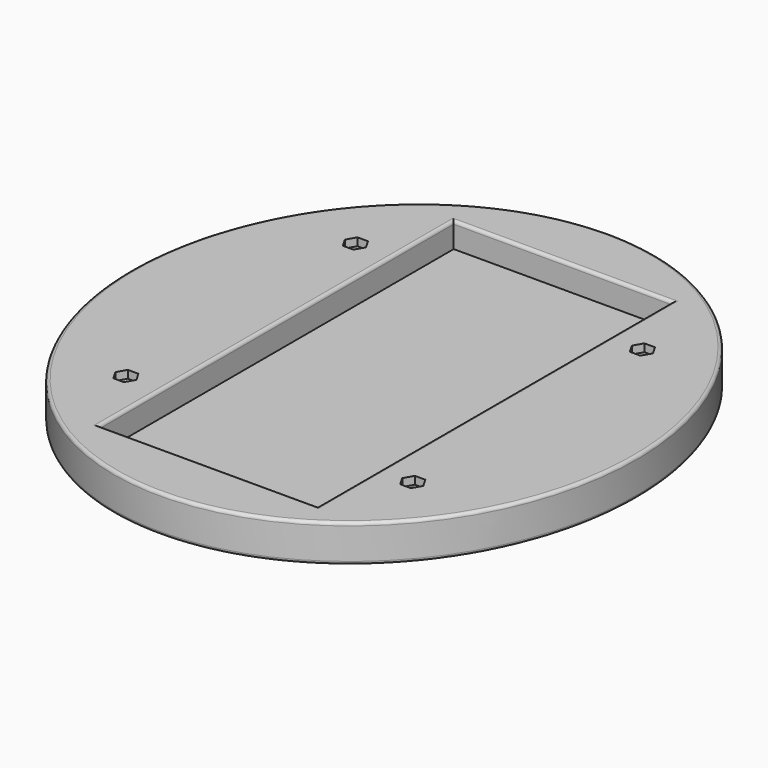
from build123d import *

# Parameters (mm, degrees)
EXTRUDE009_DEPTH            = 2.5
CYLINDER014_R               = 6.5
CYLINDER014_DEPTH           = 12.5
CYLINDER014_ROLL_ANGLE      = 90
CYLINDER014_PITCH_ANGLE     = -45
CYLINDER015_R               = 6.5
CYLINDER015_DEPTH           = 12.5
CYLINDER015_ROLL_ANGLE      = 90
CYLINDER015_PITCH_ANGLE     = 45
CYLINDER016_R               = 6.5
CYLINDER016_DEPTH           = 12.5
CYLINDER016_ROLL_ANGLE      = -90
CYLINDER016_PITCH_ANGLE     = -45
CYLINDER016_PLACEMENT_ANGLE = 180
CYLINDER013_R               = 6.5
CYLINDER013_DEPTH           = 12.5
CYLINDER013_ROLL_ANGLE      = 90
CYLINDER013_PITCH_ANGLE     = 45
FUSION034_PLACEMENT_ANGLE   = 90
CYLINDER010_R               = 1.65
CYLINDER010_DEPTH           = 20
CYLINDER010_ROLL_ANGLE      = 90
CYLINDER010_PITCH_ANGLE     = -45
CYLINDER011_R               = 1.65
CYLINDER011_DEPTH           = 20
CYLINDER011_ROLL_ANGLE      = 90
CYLINDER011_PITCH_ANGLE     = 45
CYLINDER012_R               = 1.65
CYLINDER012_DEPTH           = 20
CYLINDER012_ROLL_ANGLE      = -90
CYLINDER012_PITCH_ANGLE     = -45
CYLINDER012_PLACEMENT_ANGLE = 180
CYLINDER009_R               = 1.65
CYLINDER009_DEPTH           = 20
CYLINDER009_ROLL_ANGLE      = 90
CYLINDER009_PITCH_ANGLE     = 45
FUSION032_PLACEMENT_ANGLE   = 90
BOX003_W                    = 70
BOX003_H                    = 142
BOX003_DEPTH                = 12
EXTRUDE004_DEPTH            = 12
FILLET001_R                 = 1


with BuildPart() as m3nut:
    # Sketch009 (on Fillet) → Extrude009 (new body)
    with BuildSketch(Plane.XY):
        Polygon((-44.31125, 43.075), (-42.622501, 46), (-44.31125, 48.925), (-47.68875, 48.925), (-49.377499, 46), (-47.68875, 43.075), align=None)
        Polygon((47.68875, 43.075), (49.377499, 46), (47.68875, 48.925), (44.31125, 48.925), (42.622501, 46), (44.31125, 43.075), align=None)
        Polygon((47.68875, -48.925), (49.377499, -46), (47.68875, -43.075), (44.31125, -43.075), (42.622501, -46), (44.31125, -48.925), align=None)
        Polygon((-44.31125, -48.925), (-42.622501, -46), (-44.31125, -43.075), (-47.68875, -43.075), (-49.377499, -46), (-47.68875, -48.925), align=None)
    extrude(amount=EXTRUDE009_DEPTH)


with BuildPart() as m3nut_1:
    # Extrude009 placement: moved
    add(m3nut.part.moved(Location((0, 0, 82.5))))


with BuildPart() as cylinder014:
    # Cylinder014 → Cylinder014 (new body)
    with BuildSketch(Plane.XY):
        Circle(CYLINDER014_R)
    extrude(amount=CYLINDER014_DEPTH)


with BuildPart() as cylinder014_1:
    # Cylinder014 roll: moved
    add(cylinder014.part.rotate(Axis((0, 0, 0), (1, 0, 0)), CYLINDER014_ROLL_ANGLE))


with BuildPart() as cylinder014_2:
    # Cylinder014 pitch: moved
    add(cylinder014_1.part.rotate(Axis((0, 0, 0), (0, 1, 0)), CYLINDER014_PITCH_ANGLE))


with BuildPart() as cylinder014_3:
    # Cylinder014 placement: moved
    add(cylinder014_2.part.moved(Location((-45.961941, 57, 45.961941))))


with BuildPart() as cylinder015:
    # Cylinder015 → Cylinder015 (new body)
    with BuildSketch(Plane.XY):
        Circle(CYLINDER015_R)
    extrude(amount=CYLINDER015_DEPTH)


with BuildPart() as cylinder015_1:
    # Cylinder015 roll: moved
    add(cylinder015.part.rotate(Axis((0, 0, 0), (1, 0, 0)), CYLINDER015_ROLL_ANGLE))


with BuildPart() as cylinder015_2:
    # Cylinder015 pitch: moved
    add(cylinder015_1.part.rotate(Axis((0, 0, 0), (0, 1, 0)), CYLINDER015_PITCH_ANGLE))


with BuildPart() as cylinder015_3:
    # Cylinder015 placement: moved
    add(cylinder015_2.part.moved(Location((45.961941, 57, -45.961941))))


with BuildPart() as cylinder016:
    # Cylinder016 → Cylinder016 (new body)
    with BuildSketch(Plane.XY):
        Circle(CYLINDER016_R)
    extrude(amount=CYLINDER016_DEPTH)


with BuildPart() as cylinder016_1:
    # Cylinder016 roll: moved
    add(cylinder016.part.rotate(Axis((0, 0, 0), (1, 0, 0)), CYLINDER016_ROLL_ANGLE))


with BuildPart() as cylinder016_2:
    # Cylinder016 pitch: moved
    add(cylinder016_1.part.rotate(Axis((0, 0, 0), (0, 1, 0)), CYLINDER016_PITCH_ANGLE))


with BuildPart() as cylinder016_3:
    # Cylinder016 placement: moved
    add(cylinder016_2.part.moved(Location((-45.961941, 57, -45.961941))).rotate(Axis((-45.961941, 57, -45.961941), (0, 0, 1)), CYLINDER016_PLACEMENT_ANGLE))


with BuildPart() as m3head:
    # Cylinder013 → Cylinder013 (new body)
    with BuildSketch(Plane.XY):
        Circle(CYLINDER013_R)
    extrude(amount=CYLINDER013_DEPTH)


with BuildPart() as m3head_1:
    # Cylinder013 roll: moved
    add(m3head.part.rotate(Axis((0, 0, 0), (1, 0, 0)), CYLINDER013_ROLL_ANGLE))


with BuildPart() as m3head_2:
    # Cylinder013 pitch: moved
    add(m3head_1.part.rotate(Axis((0, 0, 0), (0, 1, 0)), CYLINDER013_PITCH_ANGLE))


with BuildPart() as m3head_3:
    # Cylinder013 placement: moved
    add(m3head_2.part.moved(Location((45.961941, 57, 45.961941))))

    # Fusion034: union Cylinder014, Cylinder015, Cylinder016
    add(cylinder014_3.part)
    add(cylinder015_3.part)
    add(cylinder016_3.part)


with BuildPart() as m3head_4:
    # Fusion034 placement: moved
    add(m3head_3.part.moved(Location((0, 0, 23))).rotate(Axis((0, 0, 23), (1, 0, 0)), FUSION034_PLACEMENT_ANGLE))


with BuildPart() as cylinder010:
    # Cylinder010 → Cylinder010 (new body)
    with BuildSketch(Plane.XY):
        Circle(CYLINDER010_R)
    extrude(amount=CYLINDER010_DEPTH)


with BuildPart() as cylinder010_1:
    # Cylinder010 roll: moved
    add(cylinder010.part.rotate(Axis((0, 0, 0), (1, 0, 0)), CYLINDER010_ROLL_ANGLE))


with BuildPart() as cylinder010_2:
    # Cylinder010 pitch: moved
    add(cylinder010_1.part.rotate(Axis((0, 0, 0), (0, 1, 0)), CYLINDER010_PITCH_ANGLE))


with BuildPart() as cylinder010_3:
    # Cylinder010 placement: moved
    add(cylinder010_2.part.moved(Location((-45.961941, 57, 45.961941))))


with BuildPart() as cylinder011:
    # Cylinder011 → Cylinder011 (new body)
    with BuildSketch(Plane.XY):
        Circle(CYLINDER011_R)
    extrude(amount=CYLINDER011_DEPTH)


with BuildPart() as cylinder011_1:
    # Cylinder011 roll: moved
    add(cylinder011.part.rotate(Axis((0, 0, 0), (1, 0, 0)), CYLINDER011_ROLL_ANGLE))


with BuildPart() as cylinder011_2:
    # Cylinder011 pitch: moved
    add(cylinder011_1.part.rotate(Axis((0, 0, 0), (0, 1, 0)), CYLINDER011_PITCH_ANGLE))


with BuildPart() as cylinder011_3:
    # Cylinder011 placement: moved
    add(cylinder011_2.part.moved(Location((45.961941, 57, -45.961941))))


with BuildPart() as cylinder012:
    # Cylinder012 → Cylinder012 (new body)
    with BuildSketch(Plane.XY):
        Circle(CYLINDER012_R)
    extrude(amount=CYLINDER012_DEPTH)


with BuildPart() as cylinder012_1:
    # Cylinder012 roll: moved
    add(cylinder012.part.rotate(Axis((0, 0, 0), (1, 0, 0)), CYLINDER012_ROLL_ANGLE))


with BuildPart() as cylinder012_2:
    # Cylinder012 pitch: moved
    add(cylinder012_1.part.rotate(Axis((0, 0, 0), (0, 1, 0)), CYLINDER012_PITCH_ANGLE))


with BuildPart() as cylinder012_3:
    # Cylinder012 placement: moved
    add(cylinder012_2.part.moved(Location((-45.961941, 57, -45.961941))).rotate(Axis((-45.961941, 57, -45.961941), (0, 0, 1)), CYLINDER012_PLACEMENT_ANGLE))


with BuildPart() as obj1:
    # Cylinder009 → Cylinder009 (new body)
    with BuildSketch(Plane.XY):
        Circle(CYLINDER009_R)
    extrude(amount=CYLINDER009_DEPTH)


with BuildPart() as obj1_1:
    # Cylinder009 roll: moved
    add(obj1.part.rotate(Axis((0, 0, 0), (1, 0, 0)), CYLINDER009_ROLL_ANGLE))


with BuildPart() as obj1_2:
    # Cylinder009 pitch: moved
    add(obj1_1.part.rotate(Axis((0, 0, 0), (0, 1, 0)), CYLINDER009_PITCH_ANGLE))


with BuildPart() as obj1_3:
    # Cylinder009 placement: moved
    add(obj1_2.part.moved(Location((45.961941, 57, 45.961941))))

    # Fusion032: union Cylinder010, Cylinder011, Cylinder012
    add(cylinder010_3.part)
    add(cylinder011_3.part)
    add(cylinder012_3.part)


with BuildPart() as obj1_4:
    # Fusion032 placement: moved
    add(obj1_3.part.moved(Location((0, 0, 36))).rotate(Axis((0, 0, 36), (1, 0, 0)), FUSION032_PLACEMENT_ANGLE))

    # Fusion189: union m3Head
    add(m3head_4.part)


with BuildPart() as obj2:
    # Box003 → Box003 (new body)
    with BuildSketch(Plane(origin=(-34.5, -71, 77), x_dir=(1, 0, 0), z_dir=(0, 0, 1))):
        with Locations((35, 71)):
            Rectangle(BOX003_W, BOX003_H)
    extrude(amount=BOX003_DEPTH)


with BuildPart() as cut007:
    # Sketch004 → Extrude004 (new body)
    with BuildSketch(Plane.XY):
        with BuildLine():
            add(Edge.make_bspline(
                [(0, 90), (-140.296115, 90), (-70.148058, -45), (0, -180), (70.148058, -45), (140.296115, 90), (0, 90)],
                knots=[0, 0, 0, 2.094395, 2.094395, 4.18879, 4.18879, 6.283185, 6.283185, 6.283185], degree=2, weights=[1, 0.5, 1, 0.5, 1, 0.5, 1]))
        make_face()
    extrude(amount=EXTRUDE004_DEPTH)


with BuildPart() as cut007_1:
    # Extrude004 placement: moved
    add(cut007.part.moved(Location((0, 0, 73))))

    # Cut: cut obj2
    add(obj2.part, mode=Mode.SUBTRACT)

    # Cut006: cut obj1
    add(obj1_4.part, mode=Mode.SUBTRACT)

    # Fillet001
    fillet001_edges = [cut007_1.edges().sort_by_distance(p)[0] for p in [
        (0.001282, -90, 73),
        (0.001282, -90, 85),
        (0.5, -71, 85),
        (35.5, 0, 85),
        (-34.5, 0, 85),
        (0.5, 71, 85),
    ]]
    fillet(fillet001_edges, radius=FILLET001_R)

    # Cut007: cut m3nut
    add(m3nut_1.part, mode=Mode.SUBTRACT)


with BuildPart() as cut007_2:
    # Cut007 placement: moved
    add(cut007_1.part.moved(Location((0, 0, -4))))


solid = cut007_2.part
